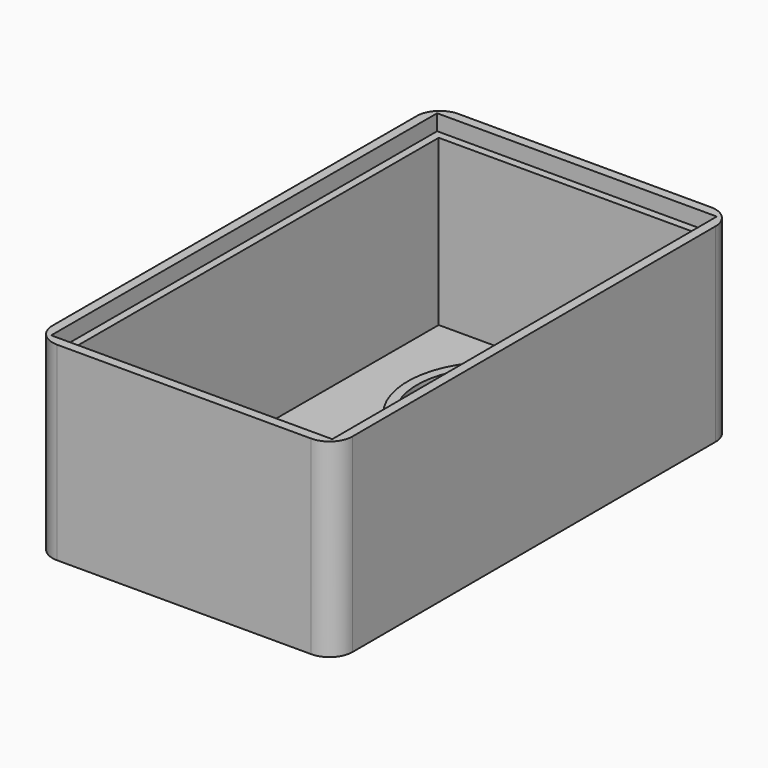
from build123d import *

# Parameters (mm, degrees)
F1_DEPTH = 60
F2_DEPTH = 55
F0_R     = 27.667587
F0_R_2   = 24.667588
F3_DEPTH = 4
F0_R_3   = 6.567471
F4_DEPTH = 2.9
F5_R     = 7.261182


with BuildPart() as f1:
    # F0 (on Top) → F1 (new body)
    with BuildSketch(Plane.XY):
        Polygon((47.330219, -78.107089), (47.093301, 80.102593), (-47.29298, 80.102593), (-47.530543, -78.107089), align=None)
        Polygon((-44.526036, -75.10709), (-44.297483, 77.102594), (44.097792, 77.102594), (44.325725, -75.10709), align=None, mode=Mode.SUBTRACT)
    extrude(amount=F1_DEPTH)

    # F0 (on Top) → F2 (join)
    with BuildSketch(Plane.XY):
        Polygon((44.097792, 77.102594), (-44.297483, 77.102594), (-44.526036, -75.10709), (44.325725, -75.10709), align=None)
        Polygon((-42.02228, -72.60709), (-41.801234, 74.602594), (41.601533, 74.602594), (41.821978, -72.60709), align=None, mode=Mode.SUBTRACT)
    extrude(amount=F2_DEPTH)



with BuildPart() as f3:
    # F0 (on Top) → F3 (new body)
    with BuildSketch(Plane.XY):
        with Locations((0, 44.681013)):
            Circle(F0_R)
        with Locations((0, 44.681013)):
            Circle(F0_R_2, mode=Mode.SUBTRACT)
    extrude(amount=F3_DEPTH)


with BuildPart() as f1_1:
    add(f1.part)

    add(f3.part)  # F4 merges F3
    # F0 (on Top) → F4 (join)
    with BuildSketch(Plane.XY):
        Polygon((41.601533, 74.602594), (-41.801234, 74.602594), (-42.02228, -72.60709), (41.821978, -72.60709), align=None)
        with Locations((0, -50.630033)):
            Circle(F0_R_3, mode=Mode.SUBTRACT)
        with Locations((0, 44.681013)):
            Circle(F0_R, mode=Mode.SUBTRACT)
    extrude(amount=F4_DEPTH)

    # F5
    f5_edges = [f1_1.edges().sort_by_distance(p)[0] for p in [
        (47.330219, -78.107089, 30),
        (-47.530543, -78.107089, 30),
        (-47.29298, 80.102593, 30),
        (47.093301, 80.102593, 30),
    ]]
    fillet(f5_edges, radius=F5_R)


solid = f1_1.part
